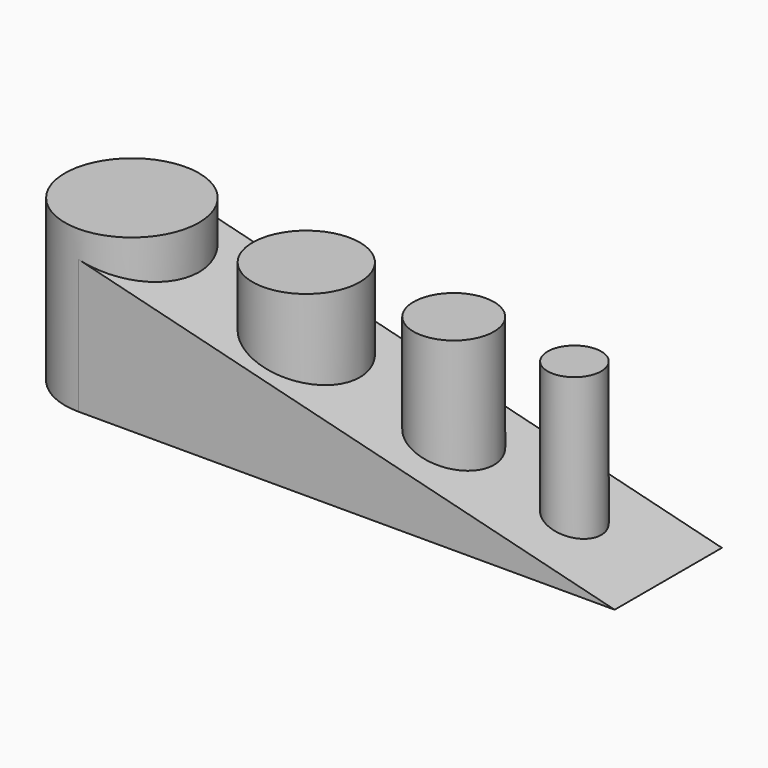
from build123d import *

# Parameters (mm, degrees)
F0_W     = 40
F0_H     = 10
F1_DEPTH = 10
F3_DEPTH = 25
F4_R     = 5
F4_R_2   = 2
F4_R_3   = 4
F4_R_4   = 3
F5_DEPTH = 12


with BuildPart() as f1:
    # F0 (on Top) → F1 (new body)
    with BuildSketch(Plane.XY):
        with Locations((20, -5)):
            Rectangle(F0_W, F0_H)
    extrude(amount=F1_DEPTH)

    # F2 (on face) → F3 (cut)
    with BuildSketch(Plane.XZ.offset(10)):
        Polygon((40, 10), (0, 10), (40, 0), align=None)
    extrude(amount=-F3_DEPTH, mode=Mode.SUBTRACT)

    # F4 (on face) → F5 (join)
    with BuildSketch(Plane(origin=(0, 0, 0), x_dir=(1, 0, 0), z_dir=(0, 0, -1))):
        with Locations((0, 5)):
            Circle(F4_R)
        with Locations((33, 5)):
            Circle(F4_R_2)
        with Locations((13, 5)):
            Circle(F4_R_3)
        with Locations((24, 5)):
            Circle(F4_R_4)
    extrude(amount=-F5_DEPTH)


solid = f1.part
